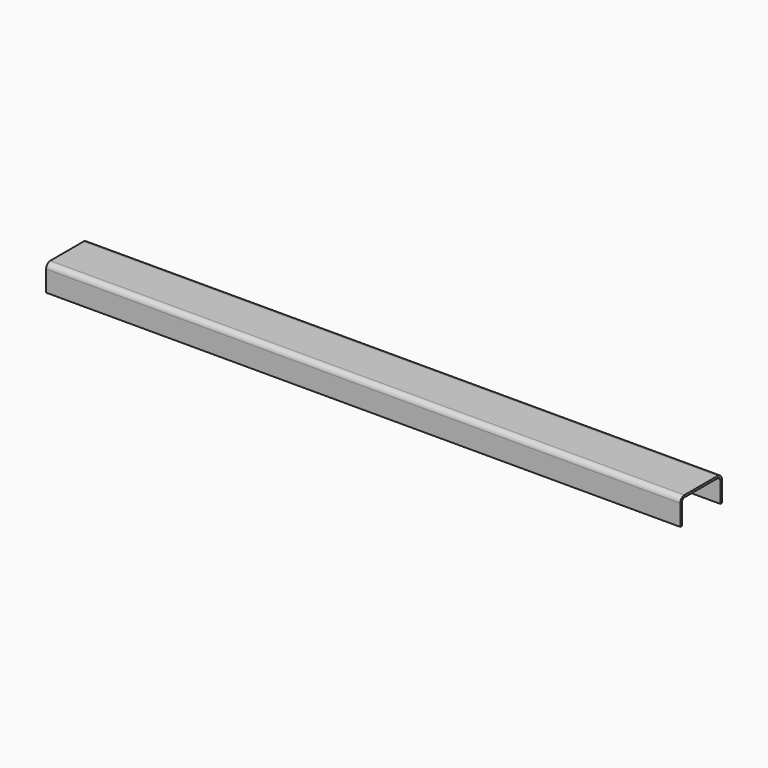
from build123d import *

# Parameters (mm, degrees)
F1_DEPTH = 1220
F2_T     = -4


with BuildPart() as f1:
    # F0 (on Right) → F1 (new body)
    with BuildSketch(Plane.YZ):
        with BuildLine():
            Line((0, 40), (0, 0))
            Line((0, 0), (100, 0))
            Line((100, 0), (100, 40))
            ThreePointArc((100, 40), (97.071068, 47.071068), (90, 50))
            Line((90, 50), (10, 50))
            ThreePointArc((10, 50), (2.928932, 47.071068), (0, 40))
        make_face()
    extrude(amount=F1_DEPTH)

    # F2
    f2_openings = [f1.faces().sort_by_distance(p)[0] for p in [
        (610, 50, 0),
        (1220, 50, 24.80288),
        (0, 50, 24.80288),
    ]]
    offset(amount=F2_T, openings=f2_openings)


solid = f1.part
